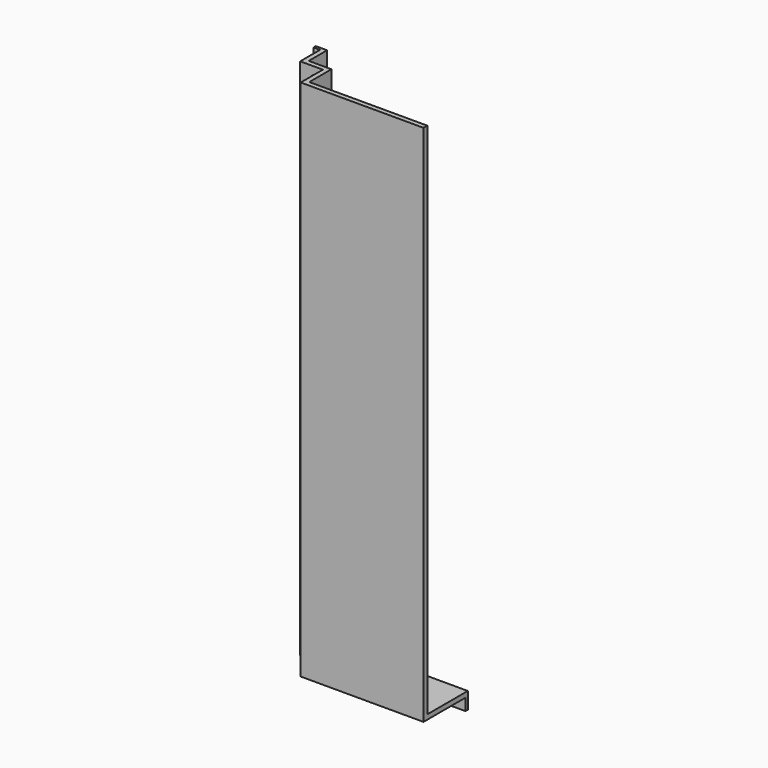
from build123d import *

# Parameters (mm, degrees)
F1_DEPTH = 220
F3_DEPTH = 2
F5_DEPTH = 2
F6_W     = 61.179483
F6_H     = 1.2
F7_DEPTH = 5


with BuildPart() as f1:
    # F0 (on Top) → F1 (new body)
    with BuildSketch(Plane.XY):
        Polygon((-51.641022, 0), (0, 0), (0, 2), (-49.641022, 2), (-49.641022, 13.641025), (-59.179483, 13.641025), (-59.179483, 23.302566), (-63.948719, 23.302566), (-63.948719, 22.102566), (-61.179483, 22.102566), (-61.179483, 11.641025), (-51.641022, 11.641025), align=None)
    extrude(amount=F1_DEPTH)

    # F2 (on face) → F3 (cut, through all)
    with BuildSketch(Plane(origin=(0, 13.641025, 0), x_dir=(-1, 0, 0), z_dir=(0, 1, 0))):
        with BuildLine():
            Line((57.179483, 189.76923), (57.179483, 214.23077))
            ThreePointArc((57.179483, 214.23077), (54.410253, 217), (51.641022, 214.23077))
            Line((51.641022, 214.23077), (51.641022, 189.76923))
            ThreePointArc((51.641022, 189.76923), (54.410253, 187), (57.179483, 189.76923))
        make_face()
        with BuildLine():
            Line((57.179483, 144.76923), (57.179483, 169.23077))
            ThreePointArc((57.179483, 169.23077), (54.410253, 172), (51.641022, 169.23077))
            Line((51.641022, 169.23077), (51.641022, 144.76923))
            ThreePointArc((51.641022, 144.76923), (54.410253, 142), (57.179483, 144.76923))
        make_face()
        with BuildLine():
            Line((57.179483, 99.76923), (57.179483, 124.23077))
            ThreePointArc((57.179483, 124.23077), (54.410253, 127), (51.641022, 124.23077))
            Line((51.641022, 124.23077), (51.641022, 99.76923))
            ThreePointArc((51.641022, 99.76923), (54.410253, 97), (57.179483, 99.76923))
        make_face()
        with BuildLine():
            Line((57.179483, 54.76923), (57.179483, 79.23077))
            ThreePointArc((57.179483, 79.23077), (54.410253, 82), (51.641022, 79.23077))
            Line((51.641022, 79.23077), (51.641022, 54.76923))
            ThreePointArc((51.641022, 54.76923), (54.410253, 52), (57.179483, 54.76923))
        make_face()
        with BuildLine():
            Line((57.179483, 9.76923), (57.179483, 34.23077))
            ThreePointArc((57.179483, 34.23077), (54.410253, 37), (51.641022, 34.23077))
            Line((51.641022, 34.23077), (51.641022, 9.76923))
            ThreePointArc((51.641022, 9.76923), (54.410253, 7), (57.179483, 9.76923))
        make_face()
    extrude(amount=-F3_DEPTH, mode=Mode.SUBTRACT)

    # F4 (on face) → F5 (join)
    with BuildSketch(Plane(origin=(0, 0, 0), x_dir=(1, 0, 0), z_dir=(0, 0, -1))):
        Polygon((-59.179483, -13.641025), (-59.179483, -23.302566), (0, -23.302566), (0, -2), (-49.641022, -2), (-49.641022, -13.641025), align=None)
    extrude(amount=-F5_DEPTH)

    # F6 (on face) → F7 (join)
    with BuildSketch(Plane(origin=(0, 0, 0), x_dir=(1, 0, 0), z_dir=(0, 0, -1))):
        with Locations((-30.589741, -22.702566)):
            Rectangle(F6_W, F6_H)
    extrude(amount=F7_DEPTH)


solid = f1.part
